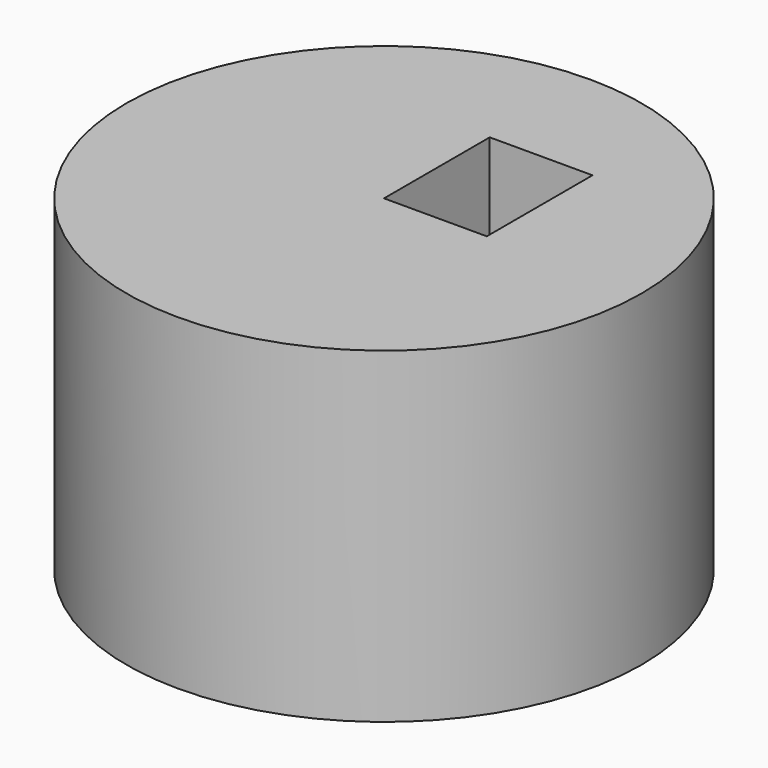
from build123d import *

# Parameters (mm, degrees)
F0_R     = 5.0038
F0_W     = 1.996685
F0_H     = 2.567166
F1_DEPTH = 6.35


with BuildPart() as f1:
    # F0 (on Top) → F1 (new body)
    with BuildSketch(Plane.XY):
        with Locations((-36.510803, 20.679947)):
            Circle(F0_R)
        with Locations((-35.51246, 21.96353)):
            Rectangle(F0_W, F0_H, mode=Mode.SUBTRACT)
    extrude(amount=F1_DEPTH)


solid = f1.part
